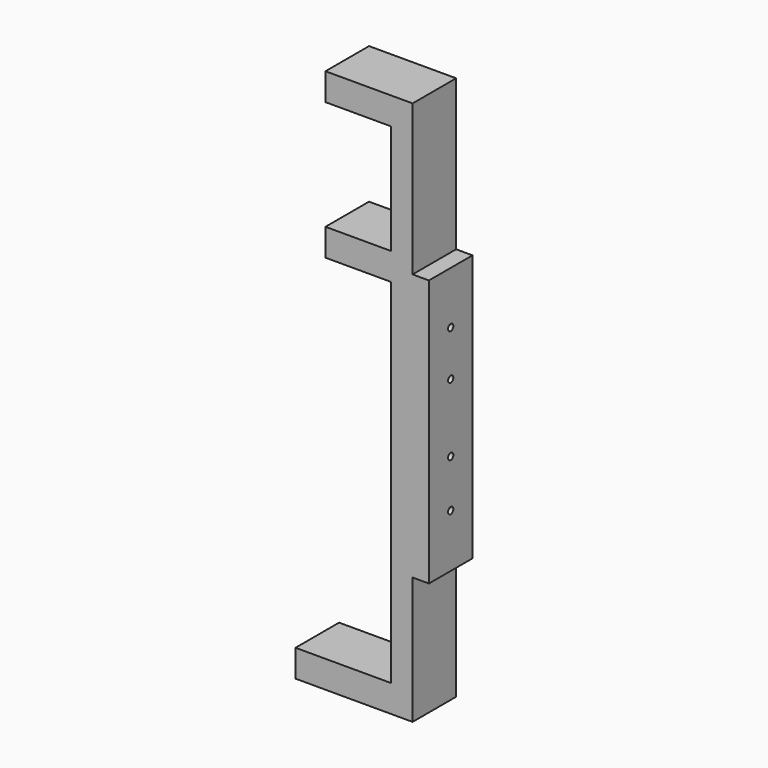
from build123d import *

# Parameters (mm, degrees)
F0_W     = 44.45
F0_H     = 12.7
F0_W_2   = 30.48
F0_W_3   = 10.16
F0_H_2   = 51.181
F1_DEPTH = 12.7
F2_R     = 1.524
F3_DEPTH = 25.4


with BuildPart() as f1:
    # F0 (on Front) → F1 (new body, symmetric)
    with BuildSketch(Plane.XZ):
        Polygon((-5.08, -127), (5.08, -127), (5.08, -67.691), (5.08, 50.419), (-5.08, 50.419), (-5.08, -114.3), align=None)
        with Locations((-27.305, -120.65)):
            Rectangle(F0_W, F0_H)
        Polygon((5.08, 50.419), (5.08, -67.691), (12.7, -67.691), (12.7, 56.769), (5.08, 56.769), align=None)
        Polygon((-5.08, 50.419), (5.08, 50.419), (5.08, 56.769), (5.08, 63.119), (-5.08, 63.119), align=None)
        with Locations((-20.32, 56.769)):
            Rectangle(F0_W_2, F0_H)
        with Locations((0, 88.7095)):
            Rectangle(F0_W_3, F0_H_2)
        with Locations((-20.32, 120.65)):
            Rectangle(F0_W_2, F0_H)
        with Locations((0, 120.65)):
            Rectangle(F0_W_3, F0_H)
        with Locations((-20.32, 120.65)):
            Rectangle(F0_W_2, F0_H)
    extrude(amount=F1_DEPTH, both=True)

    # F2 (on face) → F3 (cut)
    with BuildSketch(Plane.YZ.offset(12.7)):
        with Locations((0, 32.2834)):
            Circle(F2_R)
        with Locations((0, 11.0744)):
            Circle(F2_R)
        with Locations((0, -20.6756)):
            Circle(F2_R)
        with Locations((0, -42.9006)):
            Circle(F2_R)
    extrude(amount=-F3_DEPTH, mode=Mode.SUBTRACT)


solid = f1.part
